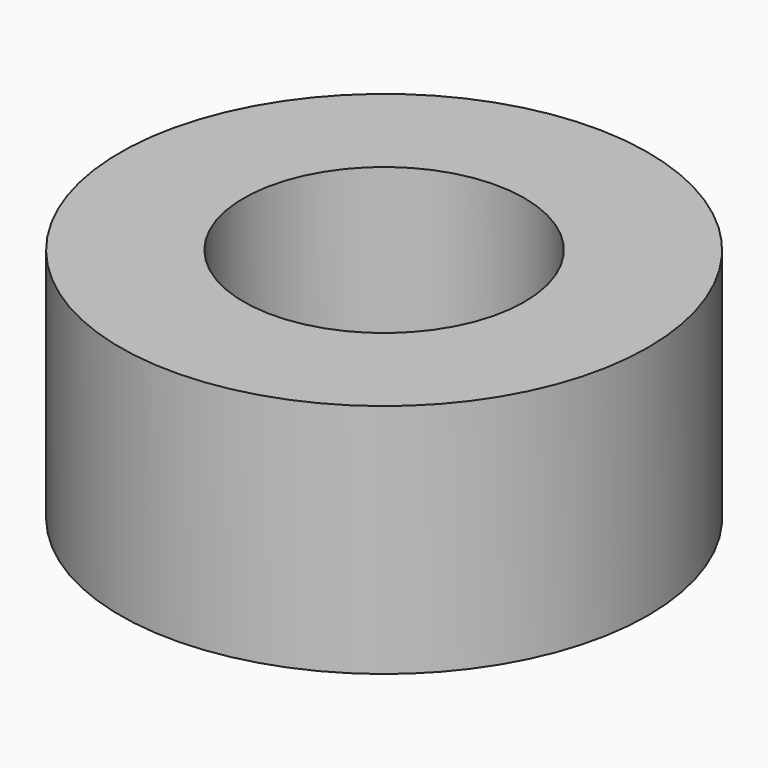
from build123d import *

# Parameters (mm, degrees)
CYLINDER_R     = 23.5
CYLINDER_DEPTH = 21
SKETCH_R       = 12.5
POCKET_DEPTH   = 21


with BuildPart() as part:
    # Cylinder → Cylinder (new body)
    with BuildSketch(Plane.XY):
        Circle(CYLINDER_R)
    extrude(amount=CYLINDER_DEPTH)

    # Sketch → Pocket (cut)
    with BuildSketch(Plane.XY.offset(21)):
        Circle(SKETCH_R)
    extrude(amount=-POCKET_DEPTH, mode=Mode.SUBTRACT)


solid = part.part
